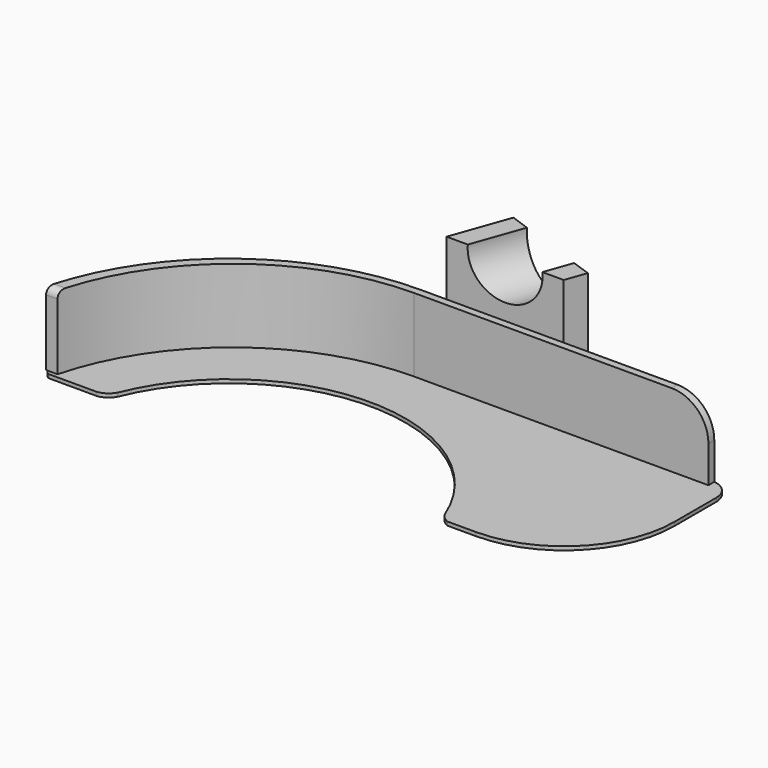
from build123d import *

# Parameters (mm, degrees)
PAD_DEPTH         = 1
PAD004_DEPTH      = 20
FILLET_R          = 10
FILLET001_R       = 2
PAD005_DEPTH      = 35
PAD005_DEPTH_BACK = 1
SKETCH005_R       = 9.6
POCKET_DEPTH      = 86.945705044


with BuildPart() as part:
    # Sketch → Pad (new body)
    with BuildSketch(Plane.XY):
        with BuildLine():
            ThreePointArc((2.407e-07, 65), (-39.2503215588, 51.8113139915), (-62.5726380514, 17.5973))
            ThreePointArc((-62.5726380514, 17.5973), (-62.2816568518, 16.2569186959), (-61.1956, 15.4192))
            Line((-61.1956, 15.4192), (-48.0942, 15.4192))
            ThreePointArc((-48.0942, 15.4192), (-46.0175682638, 16.2684180018), (-44.5213344809, 17.9402))
            ThreePointArc((44.6290648541, 17.6705), (0.1452101265, 47.9997803539), (-44.5213344809, 17.9402))
            ThreePointArc((44.6290648541, 17.6705), (45.6957884662, 16.2979684833), (47.1679586113, 15.3736))
            Line((47.1679586113, 15.3736), (54.9232114248, 15.3841578001))
            ThreePointArc((54.9232114248, 15.3841578001), (76.1100083043, 24.1853710213), (84.8823702407, 45.38413))
            Line((84.8823702407, 59.61183), (84.8823702407, 45.38413))
            ThreePointArc((84.8823702407, 59.61183), (83.3042117859, 63.4218415452), (79.4942002407, 65))
            Line((2.407e-07, 65), (79.4942002407, 65))
        make_face()
    extrude(amount=PAD_DEPTH)

    # Sketch001 → Pad004 (new body)
    with BuildSketch(Plane.XY.offset(1)):
        with BuildLine():
            ThreePointArc((6.04881e-05, 65), (-39.6936405321, 51.4724674103), (-62.8655421025, 16.5204))
            Line((-62.8655421025, 16.5204), (-59.7655421025, 16.5204))
            ThreePointArc((6.04881e-05, 63), (-37.8013201978, 49.9422727575), (-59.7655421025, 16.5204))
            Line((80.0000604881, 63), (6.04881e-05, 63))
            Line((80.0000604881, 65), (80.0000604881, 63))
            Line((6.04881e-05, 65), (80.0000604881, 65))
        make_face()
    extrude(amount=PAD004_DEPTH)

    # Fillet
    fillet_edges = [part.edges().sort_by_distance(p)[0] for p in [
        (80.00006, 64, 21),
    ]]
    fillet(fillet_edges, radius=FILLET_R)

    # Fillet001
    fillet001_edges = [part.edges().sort_by_distance(p)[0] for p in [
        (-61.315542, 16.5204, 21),
    ]]
    fillet(fillet001_edges, radius=FILLET001_R)

    # Sketch004 → Pad005 (new body, two sides)
    with BuildSketch(Plane.XY.offset(1)) as pad005_sk:
        Polygon((12.8190404688, 80.7158918092), (41.0807640524, 70.6523447167), (39.0680546339, 65), (7.2228631212, 65), align=None)
    extrude(amount=PAD005_DEPTH)
    extrude(pad005_sk.sketch, amount=-PAD005_DEPTH_BACK)

    # Sketch005 → Pocket (cut, through all)
    with BuildSketch(Plane(origin=(26.9499022606, 75.6841182629, 0), x_dir=(-0.9420574528, 0.3354515698, 0), z_dir=(0.3354515698, 0.9420574528, 0))):
        with Locations((0, 35)):
            Circle(SKETCH005_R)
    extrude(amount=-POCKET_DEPTH, mode=Mode.SUBTRACT)


solid = part.part
